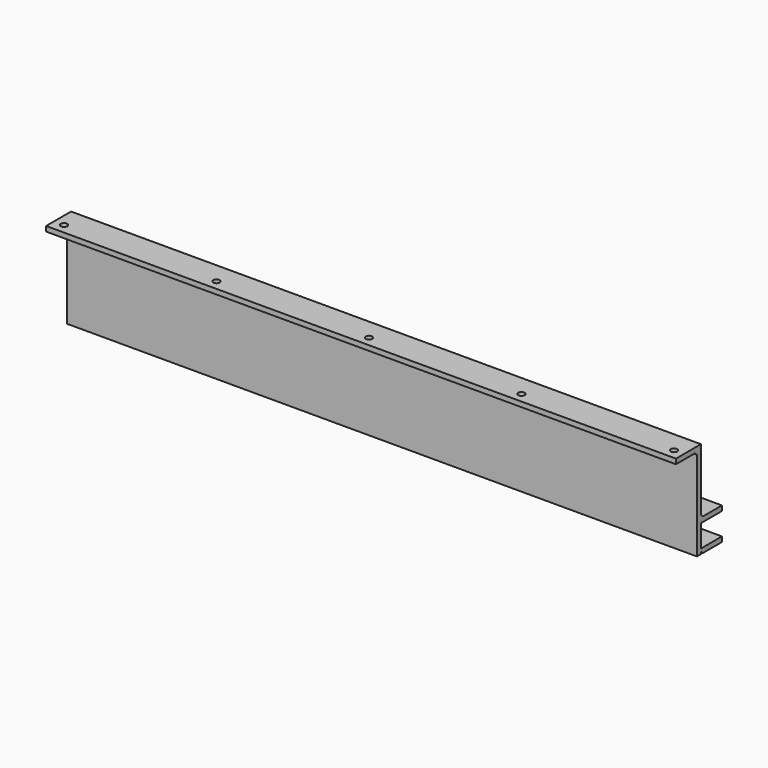
from build123d import *

# Parameters (mm, degrees)
F0_W     = 609.6
F0_H     = 93.726
F1_DEPTH = 4.826
F3_DEPTH = 609.6
F5_D     = 6.35


with BuildPart() as f1:
    # F0 (on Front) → F1 (new body)
    with BuildSketch(Plane.XZ):
        Rectangle(F0_W, F0_H)
    extrude(amount=F1_DEPTH)

    # F2 (on face) → F3 (join, through all)
    with BuildSketch(Plane.YZ.offset(304.8)):
        Polygon((0, -13.335), (0, -15.621), (2.286, -15.621), align=None)
        Polygon((0, -15.621), (0, -20.447), (25.4, -20.447), (25.4, -15.621), (2.286, -15.621), align=None)
        Polygon((-30.226, 42.037), (-7.112, 42.037), (-4.826, 42.037), (-4.826, 46.863), (-30.226, 46.863), align=None)
        Polygon((0, -44.577), (2.286, -46.863), (25.4, -46.863), (25.4, -42.037), (0, -42.037), align=None)
        Polygon((-30.226, 42.037), (-7.112, 42.037), (-4.826, 42.037), (-4.826, 46.863), (-30.226, 46.863), align=None)
        Polygon((-7.112, 42.037), (-4.826, 39.751), (-4.826, 42.037), align=None)
    extrude(amount=-F3_DEPTH)

    # F5 (through all)
    with Locations(Plane.XY.offset(46.863)):
        with Locations((-295.148, -20.574), (-147.574, -20.574), (0, -20.574), (147.574, -20.574), (295.148, -20.574)):
            Hole(F5_D / 2)


solid = f1.part
